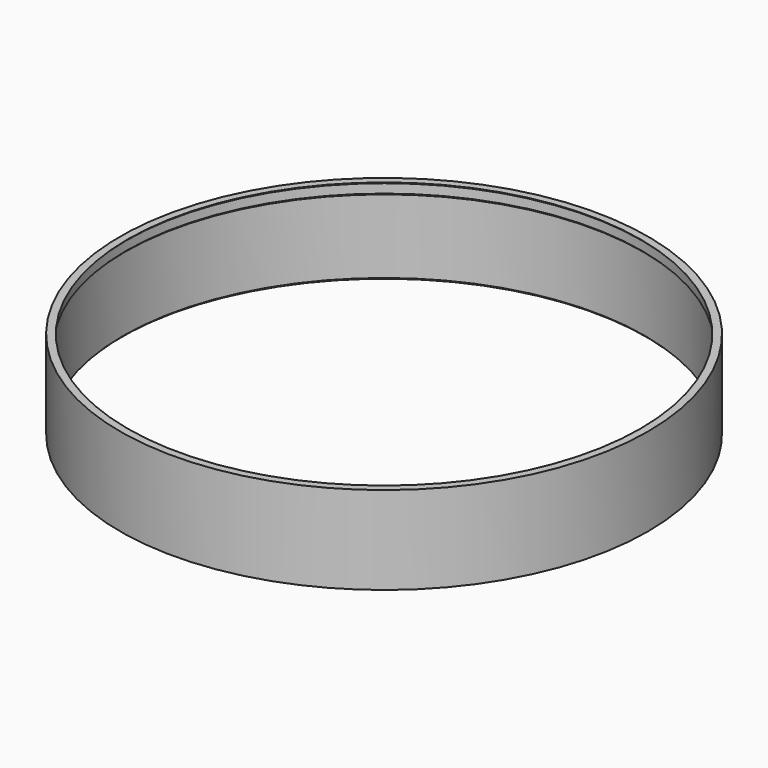
from build123d import *

# Parameters (mm, degrees)
SKETCH001_R  = 86
POCKET_DEPTH = 25
CHAMFER_SIZE = 0.5


with BuildPart() as part:
    # Sketch → Revolution (revolve)
    with BuildSketch(Plane.XZ):
        Polygon((85, 0), (85, 28.5), (84.5, 29), (87, 29), (87, 0), align=None)
    revolve(axis=Axis((0, 0, 0), (0, 0, 1)))

    # Sketch001 (on Face5 of Revolution) → Pocket (cut)
    with BuildSketch(Plane(origin=(0, 0, 0), x_dir=(1, 0, 0), z_dir=(0, 0, -1))):
        Circle(SKETCH001_R)
    extrude(amount=-POCKET_DEPTH, mode=Mode.SUBTRACT)

    # Chamfer
    chamfer_edges = [part.edges().sort_by_distance(p)[0] for p in [
        (-85, 0, 25),
        (-86, 0, 0),
    ]]
    chamfer(chamfer_edges, length=CHAMFER_SIZE)


solid = part.part
